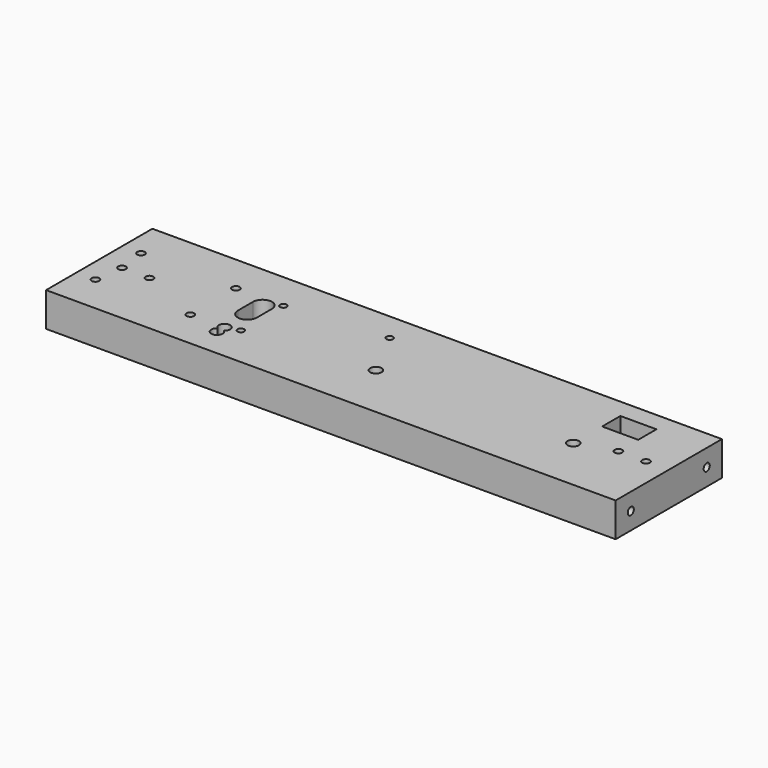
from build123d import *

# Parameters (mm, degrees)
CYLINDER020_R           = 2
CYLINDER020_DEPTH       = 13
CYLINDER020_PITCH_ANGLE = 90
CYLINDER019_R           = 2
CYLINDER019_DEPTH       = 13
CYLINDER019_PITCH_ANGLE = 90
BOX002_W                = 19
BOX002_H                = 12
BOX002_DEPTH            = 25
CYLINDER017_R           = 2
CYLINDER017_DEPTH       = 25
CYLINDER018_R           = 2
CYLINDER018_DEPTH       = 25
CYLINDER015_R           = 1.5
CYLINDER015_DEPTH       = 25
CYLINDER016_R           = 3
CYLINDER016_DEPTH       = 25
CYLINDER013_R           = 1.5
CYLINDER013_DEPTH       = 25
CYLINDER014_R           = 3
CYLINDER014_DEPTH       = 25
CYLINDER012_R           = 1.75
CYLINDER012_DEPTH       = 25
CYLINDER011_R           = 1.75
CYLINDER011_DEPTH       = 25
CYLINDER010_R           = 1.75
CYLINDER010_DEPTH       = 25
CYLINDER002_R           = 2
CYLINDER002_DEPTH       = 25
CYLINDER003_R           = 2
CYLINDER003_DEPTH       = 25
CYLINDER004_R           = 2
CYLINDER004_DEPTH       = 25
CYLINDER005_R           = 2
CYLINDER005_DEPTH       = 25
CYLINDER006_R           = 3
CYLINDER006_DEPTH       = 25
CYLINDER007_R           = 3
CYLINDER007_DEPTH       = 25
CYLINDER008_R           = 5
CYLINDER008_DEPTH       = 25
CYLINDER009_R           = 5
CYLINDER009_DEPTH       = 25
BOX001_W                = 10
BOX001_H                = 10
BOX001_DEPTH            = 25
CYLINDER_R              = 2
CYLINDER_DEPTH          = 25
CYLINDER001_R           = 2
CYLINDER001_DEPTH       = 25
BOX_W                   = 300
BOX_H                   = 70
BOX_DEPTH               = 18


with BuildPart() as cilindro020:
    # Cylinder020 → Cylinder020 (new body)
    with BuildSketch(Plane.XY):
        Circle(CYLINDER020_R)
    extrude(amount=CYLINDER020_DEPTH)


with BuildPart() as cilindro020_1:
    # Cylinder020 pitch: moved
    add(cilindro020.part.rotate(Axis((0, 0, 0), (0, 1, 0)), CYLINDER020_PITCH_ANGLE))


with BuildPart() as cilindro020_2:
    # Cylinder020 placement: moved
    add(cilindro020_1.part.moved(Location((0, 60, 9))))


with BuildPart() as mirror_of_cilindro020:
    # mirror001: instance of Cilindro020
    add(cilindro020_2.part.mirror(Plane(origin=(300, 0, 18), x_dir=(0, -1, 0), z_dir=(1, 0, 0))))


with BuildPart() as mirror_of_cilindro020_1:
    # mirror001 placement: moved
    add(mirror_of_cilindro020.part.moved(Location((-300, 0, 0))))


with BuildPart() as cilindro019:
    # Cylinder019 → Cylinder019 (new body)
    with BuildSketch(Plane.XY):
        Circle(CYLINDER019_R)
    extrude(amount=CYLINDER019_DEPTH)


with BuildPart() as cilindro019_1:
    # Cylinder019 pitch: moved
    add(cilindro019.part.rotate(Axis((0, 0, 0), (0, 1, 0)), CYLINDER019_PITCH_ANGLE))


with BuildPart() as cilindro019_2:
    # Cylinder019 placement: moved
    add(cilindro019_1.part.moved(Location((0, 10, 9))))


with BuildPart() as mirror_of_cilindro019:
    # mirror: instance of Cilindro019
    add(cilindro019_2.part.mirror(Plane(origin=(300, 0, 18), x_dir=(0, -1, 0), z_dir=(1, 0, 0))))


with BuildPart() as mirror_of_cilindro019_1:
    # mirror placement: moved
    add(mirror_of_cilindro019.part.moved(Location((-300, 0, 0))))


with BuildPart() as cubo002:
    # Box002 → Box002 (new body)
    with BuildSketch(Plane(origin=(254.5, 48, 0), x_dir=(1, 0, 0), z_dir=(0, 0, 1))):
        with Locations((9.5, 6)):
            Rectangle(BOX002_W, BOX002_H)
    extrude(amount=BOX002_DEPTH)


with BuildPart() as cilindro017:
    # Cylinder017 → Cylinder017 (new body)
    with BuildSketch(Plane(origin=(288, 35, 0), x_dir=(1, 0, 0), z_dir=(0, 0, 1))):
        Circle(CYLINDER017_R)
    extrude(amount=CYLINDER017_DEPTH)


with BuildPart() as cilindro018:
    # Cylinder018 → Cylinder018 (new body)
    with BuildSketch(Plane(origin=(273.5, 35, 0), x_dir=(1, 0, 0), z_dir=(0, 0, 1))):
        Circle(CYLINDER018_R)
    extrude(amount=CYLINDER018_DEPTH)


with BuildPart() as cilindro015:
    # Cylinder015 → Cylinder015 (new body)
    with BuildSketch(Plane(origin=(150.5, 29, 0), x_dir=(1, 0, 0), z_dir=(0, 0, 1))):
        Circle(CYLINDER015_R)
    extrude(amount=CYLINDER015_DEPTH)


with BuildPart() as fusion002:
    # Cylinder016 → Cylinder016 (new body)
    with BuildSketch(Plane(origin=(150.5, 29, 11), x_dir=(1, 0, 0), z_dir=(0, 0, 1))):
        Circle(CYLINDER016_R)
    extrude(amount=CYLINDER016_DEPTH)

    # Fusion002: union Cilindro015
    add(cilindro015.part)


with BuildPart() as fusion002_1:
    # Fusion002 placement: moved
    add(fusion002.part.moved(Location((104, 0, 0))))


with BuildPart() as cilindro013:
    # Cylinder013 → Cylinder013 (new body)
    with BuildSketch(Plane(origin=(150.5, 29, 0), x_dir=(1, 0, 0), z_dir=(0, 0, 1))):
        Circle(CYLINDER013_R)
    extrude(amount=CYLINDER013_DEPTH)


with BuildPart() as fusion001:
    # Cylinder014 → Cylinder014 (new body)
    with BuildSketch(Plane(origin=(150.5, 29, 11), x_dir=(1, 0, 0), z_dir=(0, 0, 1))):
        Circle(CYLINDER014_R)
    extrude(amount=CYLINDER014_DEPTH)

    # Fusion001: union Cilindro013
    add(cilindro013.part)


with BuildPart() as cilindro012:
    # Cylinder012 → Cylinder012 (new body)
    with BuildSketch(Plane(origin=(137, 55, 0), x_dir=(1, 0, 0), z_dir=(0, 0, 1))):
        Circle(CYLINDER012_R)
    extrude(amount=CYLINDER012_DEPTH)


with BuildPart() as cilindro011:
    # Cylinder011 → Cylinder011 (new body)
    with BuildSketch(Plane(origin=(85, 50, 0), x_dir=(1, 0, 0), z_dir=(0, 0, 1))):
        Circle(CYLINDER011_R)
    extrude(amount=CYLINDER011_DEPTH)


with BuildPart() as cilindro010:
    # Cylinder010 → Cylinder010 (new body)
    with BuildSketch(Plane(origin=(85, 22, 0), x_dir=(1, 0, 0), z_dir=(0, 0, 1))):
        Circle(CYLINDER010_R)
    extrude(amount=CYLINDER010_DEPTH)


with BuildPart() as cilindro002:
    # Cylinder002 → Cylinder002 (new body)
    with BuildSketch(Plane(origin=(60, 20, 0), x_dir=(1, 0, 0), z_dir=(0, 0, 1))):
        Circle(CYLINDER002_R)
    extrude(amount=CYLINDER002_DEPTH)


with BuildPart() as cilindro003:
    # Cylinder003 → Cylinder003 (new body)
    with BuildSketch(Plane(origin=(60, 50, 0), x_dir=(1, 0, 0), z_dir=(0, 0, 1))):
        Circle(CYLINDER003_R)
    extrude(amount=CYLINDER003_DEPTH)


with BuildPart() as cilindro004:
    # Cylinder004 → Cylinder004 (new body)
    with BuildSketch(Plane(origin=(12, 35, 0), x_dir=(1, 0, 0), z_dir=(0, 0, 1))):
        Circle(CYLINDER004_R)
    extrude(amount=CYLINDER004_DEPTH)


with BuildPart() as cilindro005:
    # Cylinder005 → Cylinder005 (new body)
    with BuildSketch(Plane(origin=(26.5, 35, 0), x_dir=(1, 0, 0), z_dir=(0, 0, 1))):
        Circle(CYLINDER005_R)
    extrude(amount=CYLINDER005_DEPTH)


with BuildPart() as cilindro006:
    # Cylinder006 → Cylinder006 (new body)
    with BuildSketch(Plane(origin=(78, 15, 0), x_dir=(1, 0, 0), z_dir=(0, 0, 1))):
        Circle(CYLINDER006_R)
    extrude(amount=CYLINDER006_DEPTH)


with BuildPart() as cilindro007:
    # Cylinder007 → Cylinder007 (new body)
    with BuildSketch(Plane(origin=(78, 20, 0), x_dir=(1, 0, 0), z_dir=(0, 0, 1))):
        Circle(CYLINDER007_R)
    extrude(amount=CYLINDER007_DEPTH)


with BuildPart() as cilindro008:
    # Cylinder008 → Cylinder008 (new body)
    with BuildSketch(Plane(origin=(78, 35, 0), x_dir=(1, 0, 0), z_dir=(0, 0, 1))):
        Circle(CYLINDER008_R)
    extrude(amount=CYLINDER008_DEPTH)


with BuildPart() as cilindro009:
    # Cylinder009 → Cylinder009 (new body)
    with BuildSketch(Plane(origin=(78, 45, 0), x_dir=(1, 0, 0), z_dir=(0, 0, 1))):
        Circle(CYLINDER009_R)
    extrude(amount=CYLINDER009_DEPTH)


with BuildPart() as cubo001:
    # Box001 → Box001 (new body)
    with BuildSketch(Plane(origin=(73, 35, 0), x_dir=(1, 0, 0), z_dir=(0, 0, 1))):
        with Locations((5, 5)):
            Rectangle(BOX001_W, BOX001_H)
    extrude(amount=BOX001_DEPTH)


with BuildPart() as cilindro:
    # Cylinder → Cylinder (new body)
    with BuildSketch(Plane(origin=(10, 20, 0), x_dir=(1, 0, 0), z_dir=(0, 0, 1))):
        Circle(CYLINDER_R)
    extrude(amount=CYLINDER_DEPTH)


with BuildPart() as fusion:
    # Cylinder001 → Cylinder001 (new body)
    with BuildSketch(Plane(origin=(10, 50, 0), x_dir=(1, 0, 0), z_dir=(0, 0, 1))):
        Circle(CYLINDER001_R)
    extrude(amount=CYLINDER001_DEPTH)

    # Fusion: union Cilindro002, Cilindro003, Cilindro004, Cilindro005, Cilindro006, Cilindro007, Cilindro008, Cilindro009, Cubo001, Cilindro
    add(cilindro002.part)
    add(cilindro003.part)
    add(cilindro004.part)
    add(cilindro005.part)
    add(cilindro006.part)
    add(cilindro007.part)
    add(cilindro008.part)
    add(cilindro009.part)
    add(cubo001.part)
    add(cilindro.part)


with BuildPart() as cut012:
    # Box → Box (new body)
    with BuildSketch(Plane.XY):
        with Locations((150, 35)):
            Rectangle(BOX_W, BOX_H)
    extrude(amount=BOX_DEPTH)

    # Cut: cut Fusion
    add(fusion.part, mode=Mode.SUBTRACT)

    # Cut001: cut Cilindro010
    add(cilindro010.part, mode=Mode.SUBTRACT)

    # Cut002: cut Cilindro011
    add(cilindro011.part, mode=Mode.SUBTRACT)

    # Cut003: cut Cilindro012
    add(cilindro012.part, mode=Mode.SUBTRACT)

    # Cut004: cut Fusion001
    add(fusion001.part, mode=Mode.SUBTRACT)

    # Cut005: cut Fusion002
    add(fusion002_1.part, mode=Mode.SUBTRACT)

    # Cut006: cut Cilindro018
    add(cilindro018.part, mode=Mode.SUBTRACT)

    # Cut007: cut Cilindro017
    add(cilindro017.part, mode=Mode.SUBTRACT)

    # Cut008: cut Cubo002
    add(cubo002.part, mode=Mode.SUBTRACT)

    # Cut009: cut Cilindro019
    add(cilindro019_2.part, mode=Mode.SUBTRACT)

    # Cut010: cut Cilindro020
    add(cilindro020_2.part, mode=Mode.SUBTRACT)

    # Cut011: cut Mirror of Cilindro019
    add(mirror_of_cilindro019_1.part, mode=Mode.SUBTRACT)

    # Cut012: cut Mirror of Cilindro020
    add(mirror_of_cilindro020_1.part, mode=Mode.SUBTRACT)


solid = cut012.part
